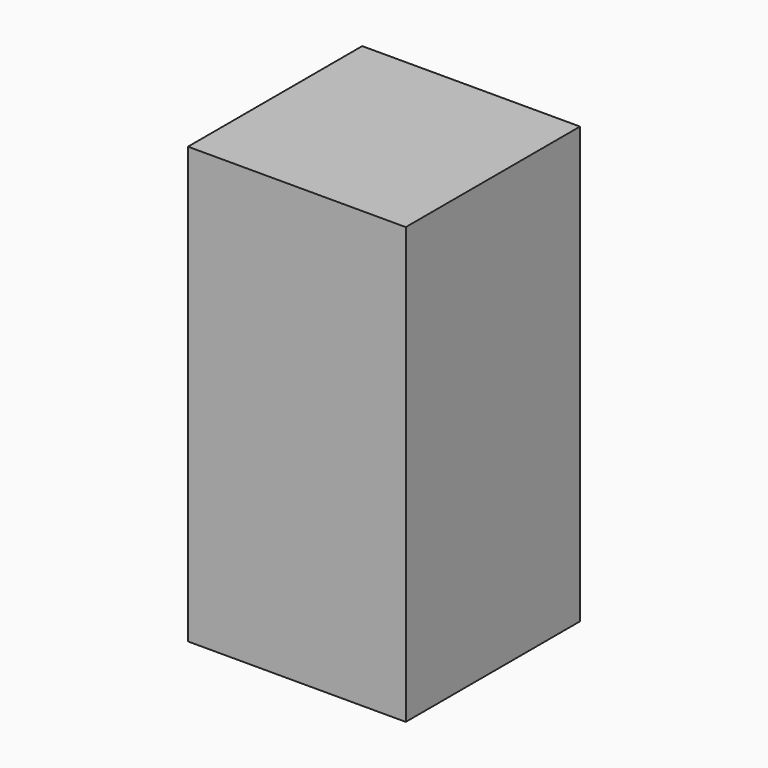
from build123d import *

# Parameters (mm, degrees)
F0_W     = 25.4
F0_H     = 50.8
F1_DEPTH = 25.4
F2_W     = 25.4
F2_H     = 25.4
F3_DEPTH = 25.4


with BuildPart() as f1:
    # F0 (on Front) → F1 (new body)
    with BuildSketch(Plane.XZ):
        with Locations((-32.747208, 23.681408)):
            Rectangle(F0_W, F0_H)
    extrude(amount=F1_DEPTH)

    # F2 (on Front) → F3 (cut)
    with BuildSketch(Plane.XZ):
        with Locations((-32.365299, 12.7)):
            Rectangle(F2_W, F2_H)
    extrude(amount=-F3_DEPTH, mode=Mode.SUBTRACT)


solid = f1.part
